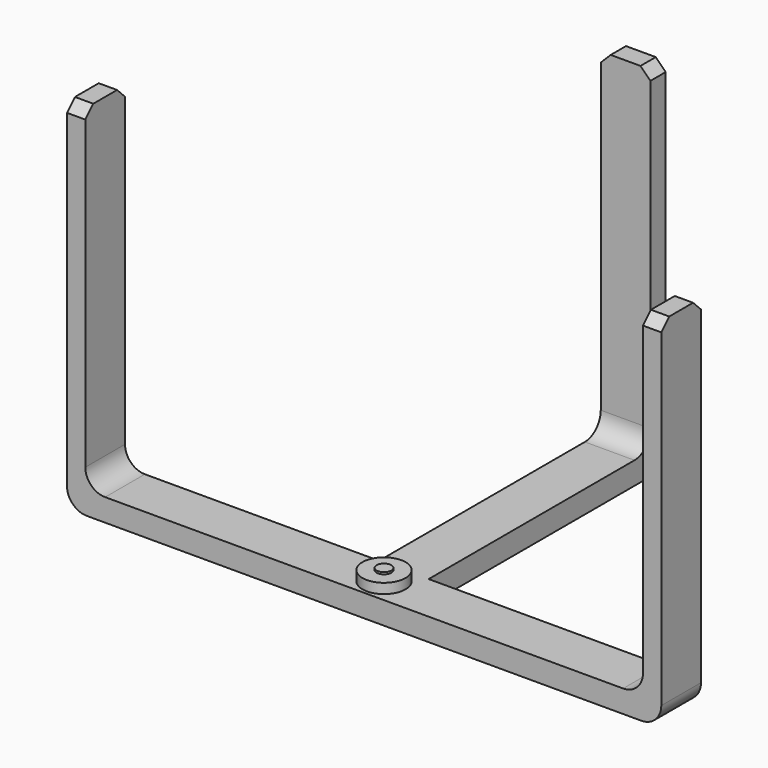
from build123d import *

# Parameters (mm, degrees)
F0_W     = 4.6872794628
F0_H     = 85.9219655395
F1_DEPTH = 6.35
F2_W     = 4.8930570483
F2_H     = 85.9219655395
F2_W_2   = 70.9142880514
F2_H_2   = 5.7498048991
F3_DEPTH = 6.35
F4_R     = 5.08
F5_SIZE  = 2.54
F6_R     = 5.5162343309
F6_R_2   = 1.8756395143
F7_DEPTH = 2.54
F8_DEPTH = 3.048


with BuildPart() as f1:
    # F0 (on Front) → F1 (new body, symmetric)
    with BuildSketch(Plane.XZ):
        Polygon((76.0237202048, -5.7498048991), (76.0237202048, 0), (71.336440742, 0), (-71.336440742, 0), (-76.0237202048, 0), (-76.0237202048, -5.7498048991), (0, -5.7498048991), align=None)
        with Locations((-73.6800804734, 42.9609827697)):
            Rectangle(F0_W, F0_H)
        with Locations((73.6800804734, 42.9609827697)):
            Rectangle(F0_W, F0_H)
    extrude(amount=F1_DEPTH, both=True)

    # F2 (on Right) → F3 (join, symmetric)
    with BuildSketch(Plane.YZ):
        with Locations((79.7009654343, 42.9609827697)):
            Rectangle(F2_W, F2_H)
        with Locations((41.7972928844, -2.8749024495)):
            Rectangle(F2_W_2, F2_H_2)
        Polygon((82.1474939585, 0), (77.2544369102, 0), (77.2544369102, -5.7498048991), (82.3985040188, -5.7498048991), align=None)
    extrude(amount=F3_DEPTH, both=True)

    # F4
    f4_edges = [f1.edges().sort_by_distance(p)[0] for p in [
        (0, 77.254437, 0),
        (-71.336441, 0, 0),
        (71.336441, 0, 0),
        (-76.02372, 0, -5.749805),
        (76.02372, 0, -5.749805),
        (0, 82.398504, -5.749805),
    ]]
    fillet(f4_edges, radius=F4_R)

    # F5
    f5_edges = [f1.edges().sort_by_distance(p)[0] for p in [
        (-73.68008, -6.35, 85.921966),
        (-73.68008, 6.35, 85.921966),
        (73.68008, -6.35, 85.921966),
        (73.68008, 6.35, 85.921966),
        (6.35, 79.700965, 85.921966),
        (-6.35, 79.700965, 85.921966),
    ]]
    chamfer(f5_edges, length=F5_SIZE)

    # F6 (on face) → F7 (join)
    with BuildSketch(Plane.XY):
        Circle(F6_R)
        Circle(F6_R_2, mode=Mode.SUBTRACT)
    extrude(amount=F7_DEPTH)

    # F8 (add): a face of the model
    f8_faces = [f1.faces().sort_by_distance(p)[0] for p in [
        (0, 0, 0),
    ]]
    extrude(f8_faces, amount=F8_DEPTH)


solid = f1.part
